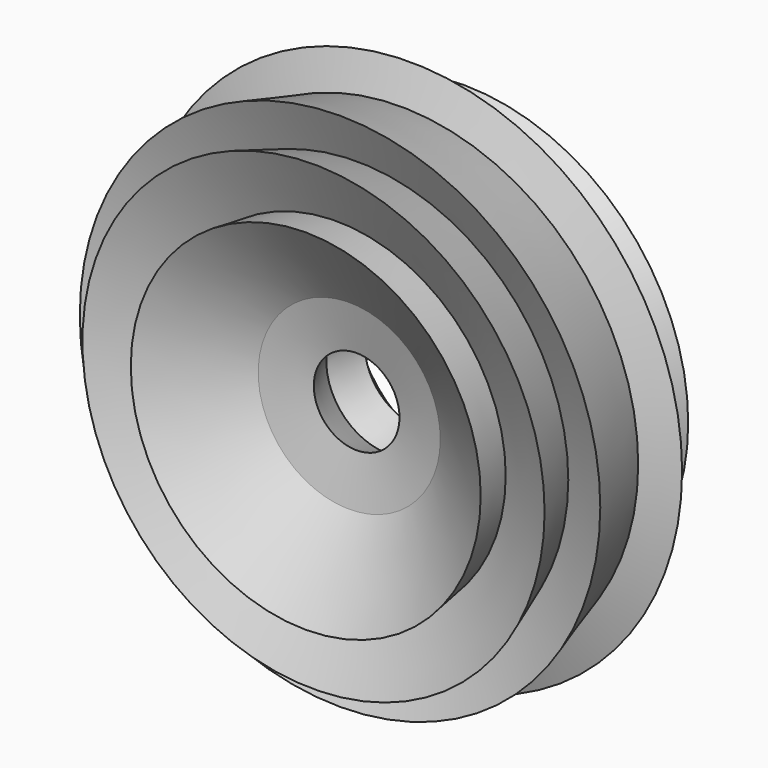
from build123d import *


with BuildPart() as f1:
    # F0 (on Top) → F1 (revolve)
    with BuildSketch(Plane.XY):
        Polygon((-32.505702, 18.407926), (-44.5382, 11.942703), (-41.485179, -3.861175), (-49.207527, -19.844642), (-29.63227, -23.616023), (4.489737, -45.705535), (2.155074, -30.081242), (27.297605, -41.754562), (19.395668, -19.844642), (39.150517, -28.285349), (29.991448, 2.424459), (43.819841, 7.452965), (18.677311, 18.407926), (24.603764, 34.570981), (-10.954961, 23.616023), (-23.167048, 33.134267), align=None)
    revolve(axis=Axis((-66.627711, -3.77138, 0), (0, -1, 0)))


solid = f1.part
